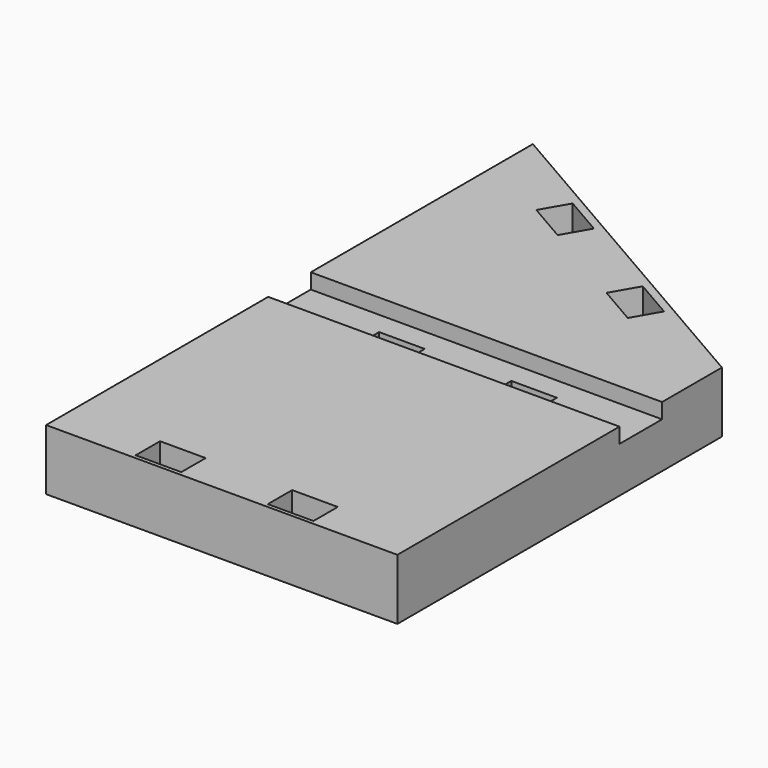
from build123d import *

# Parameters (mm, degrees)
F1_DEPTH = 10.16
F2_DEPTH = 7.62
F0_W     = 7.62
F0_H     = 5.08
F3_DEPTH = 10.16


with BuildPart() as f1:
    # F0 (on Top) → F1 (new body)
    with BuildSketch(Plane.XY):
        Polygon((35.535632, -55.732704), (-23.123154, -21.866039), (-23.123154, -68.221039), (35.535632, -68.221039), align=None)
        Polygon((-11.14219, -36.1156), (-8.60219, -31.716191), (-2.003076, -35.526191), (-4.543076, -39.9256), align=None, mode=Mode.SUBTRACT)
        Polygon((17.212002, -52.4859), (10.612888, -48.6759), (13.152888, -44.276491), (19.752002, -48.086491), align=None, mode=Mode.SUBTRACT)
    extrude(amount=F1_DEPTH)

    # F0 (on Top) → F2 (join)
    with BuildSketch(Plane.XY):
        Polygon((35.535632, -68.221039), (-23.123154, -68.221039), (-23.123154, -77.111039), (-8.670554, -77.111039), (-8.670554, -72.031039), (-1.050554, -72.031039), (-1.050554, -77.111039), (13.402046, -77.111039), (13.402046, -72.031039), (21.022046, -72.031039), (21.022046, -77.111039), (35.535632, -77.111039), align=None)
    extrude(amount=F2_DEPTH)

    # F0 (on Top) → F3 (join)
    with BuildSketch(Plane.XY):
        Polygon((-8.670554, -77.111039), (-23.123154, -77.111039), (-23.123154, -123.466039), (8.804092, -123.466039), (25.314092, -123.466039), (35.535632, -123.466039), (35.535632, -77.111039), (21.022046, -77.111039), (13.402046, -77.111039), (-1.050554, -77.111039), align=None)
        with Locations((-4.860554, -120.291039)):
            Rectangle(F0_W, F0_H, mode=Mode.SUBTRACT)
        with Locations((17.212046, -120.304264)):
            Rectangle(F0_W, F0_H, mode=Mode.SUBTRACT)
    extrude(amount=F3_DEPTH)


solid = f1.part
